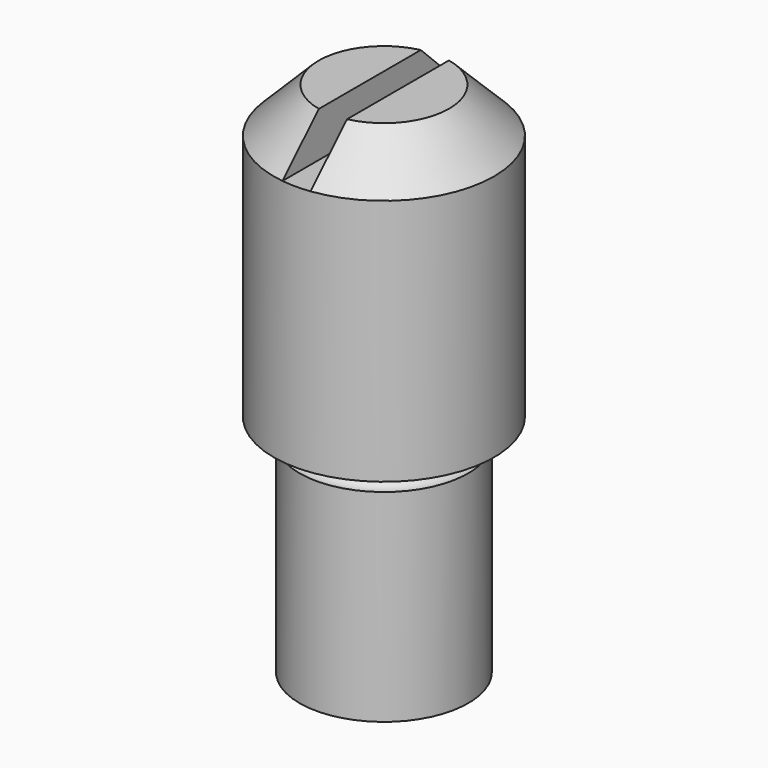
from build123d import *

# Parameters (mm, degrees)
F2_W     = 3.175
F2_H     = 10.16
F3_DEPTH = 12.7


with BuildPart() as f1:
    # F0 (on Front) → F1 (revolve)
    with BuildSketch(Plane.XZ):
        with BuildLine():
            Line((0, -58.42), (0, 0))
            Line((0, 0), (-7.366, 0))
            Line((-7.366, 0), (-12.446, -5.08))
            Line((-12.446, -5.08), (-12.446, -33.02))
            Line((-12.446, -33.02), (-9.525, -33.02))
            ThreePointArc((-9.525, -33.02), (-8.255, -34.29), (-9.525, -35.56))
            Line((-9.525, -35.56), (-9.525, -58.42))
            Line((-9.525, -58.42), (0, -58.42))
        make_face()
    revolve(axis=Axis((0, 0, -29.21), (0, 0, -1)))

    # F2 (on Front) → F3 (cut, symmetric)
    with BuildSketch(Plane.XZ):
        Rectangle(F2_W, F2_H)
    extrude(amount=F3_DEPTH, both=True, mode=Mode.SUBTRACT)


solid = f1.part
